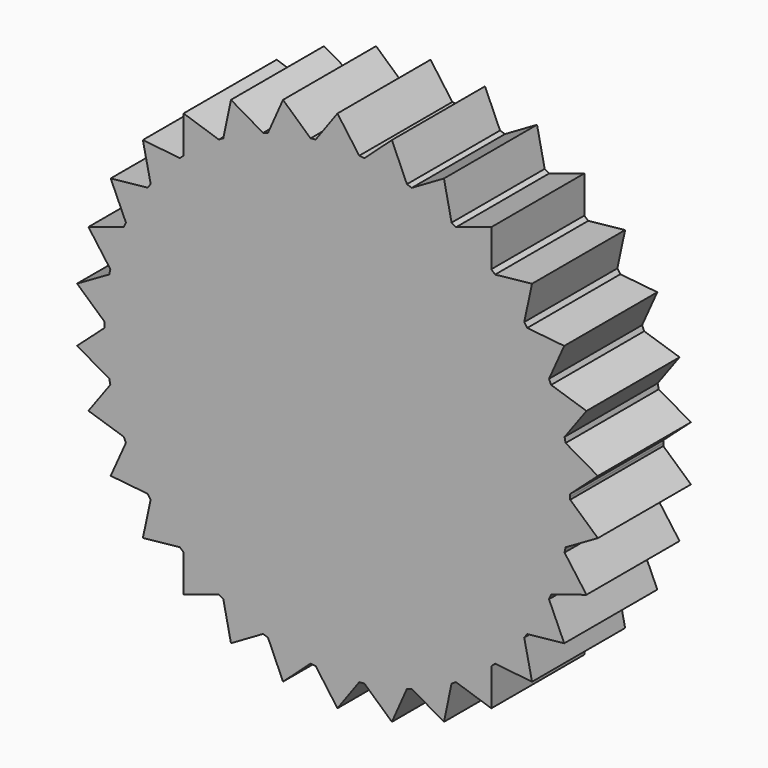
from build123d import *

# Parameters (mm, degrees)
F1_DEPTH = 12.7


with BuildPart() as f1:
    # F0 (on Front) → F1 (new body)
    with BuildSketch(Plane.XZ):
        with BuildLine():
            ThreePointArc((25.39845, -0.280579), (25.399613, -0.140292), (25.4, 0))
            ThreePointArc((25.4, 0), (25.399613, 0.140292), (25.39845, 0.280579))
            ThreePointArc((25.39845, 0.280579), (25.260856, 2.655023), (24.901769, 5.006187))
            ThreePointArc((24.901769, 5.006187), (24.844949, 5.280957), (24.785097, 5.555083))
            ThreePointArc((24.785097, 5.555083), (24.156836, 7.849032), (23.316761, 10.074158))
            ThreePointArc((23.316761, 10.074158), (23.204055, 10.331111), (23.088517, 10.586802))
            ThreePointArc((23.088517, 10.586802), (21.997045, 12.7), (20.712698, 14.701841))
            ThreePointArc((20.712698, 14.701841), (20.549032, 14.929745), (20.382858, 15.155828))
            ThreePointArc((20.382858, 15.155828), (18.875879, 16.995917), (17.203391, 18.686983))
            ThreePointArc((17.203391, 18.686983), (16.995917, 18.875879), (16.786369, 19.062471))
            ThreePointArc((16.786369, 19.062471), (14.929745, 20.549032), (12.942214, 21.855413))
            ThreePointArc((12.942214, 21.855413), (12.7, 21.997045), (12.456236, 22.135993))
            ThreePointArc((12.456236, 22.135993), (10.331111, 23.204055), (8.1154, 24.068658))
            ThreePointArc((8.1154, 24.068658), (7.849032, 24.156836), (7.581706, 24.242065))
            ThreePointArc((7.581706, 24.242065), (5.280957, 24.844949), (2.933903, 25.229986))
            ThreePointArc((2.933903, 25.229986), (2.655023, 25.260856), (2.375819, 25.288643))
            ThreePointArc((2.375819, 25.288643), (0, 25.4), (-2.375819, 25.288643))
            ThreePointArc((-2.375819, 25.288643), (-2.655023, 25.260856), (-2.933903, 25.229986))
            ThreePointArc((-2.933903, 25.229986), (-5.280957, 24.844949), (-7.581706, 24.242065))
            ThreePointArc((-7.581706, 24.242065), (-7.849032, 24.156836), (-8.1154, 24.068658))
            ThreePointArc((-8.1154, 24.068658), (-10.331111, 23.204055), (-12.456236, 22.135993))
            ThreePointArc((-12.456236, 22.135993), (-12.7, 21.997045), (-12.942214, 21.855413))
            ThreePointArc((-12.942214, 21.855413), (-14.929745, 20.549032), (-16.786369, 19.062471))
            ThreePointArc((-16.786369, 19.062471), (-16.995917, 18.875879), (-17.203391, 18.686983))
            ThreePointArc((-17.203391, 18.686983), (-18.875879, 16.995917), (-20.382858, 15.155828))
            ThreePointArc((-20.382858, 15.155828), (-20.549032, 14.929745), (-20.712698, 14.701841))
            ThreePointArc((-20.712698, 14.701841), (-21.997045, 12.7), (-23.088517, 10.586802))
            ThreePointArc((-23.088517, 10.586802), (-23.204055, 10.331111), (-23.316761, 10.074158))
            ThreePointArc((-23.316761, 10.074158), (-24.156836, 7.849032), (-24.785097, 5.555083))
            ThreePointArc((-24.785097, 5.555083), (-24.844949, 5.280957), (-24.901769, 5.006187))
            ThreePointArc((-24.901769, 5.006187), (-25.260856, 2.655023), (-25.39845, 0.280579))
            ThreePointArc((-25.39845, 0.280579), (-25.4, 0), (-25.39845, -0.280579))
            ThreePointArc((-25.39845, -0.280579), (-25.260856, -2.655023), (-24.901769, -5.006187))
            ThreePointArc((-24.901769, -5.006187), (-24.844949, -5.280957), (-24.785097, -5.555083))
            ThreePointArc((-24.785097, -5.555083), (-24.156836, -7.849032), (-23.316761, -10.074158))
            ThreePointArc((-23.316761, -10.074158), (-23.204055, -10.331111), (-23.088517, -10.586802))
            ThreePointArc((-23.088517, -10.586802), (-21.997045, -12.7), (-20.712698, -14.701841))
            ThreePointArc((-20.712698, -14.701841), (-20.549032, -14.929745), (-20.382858, -15.155828))
            ThreePointArc((-20.382858, -15.155828), (-18.875879, -16.995917), (-17.203391, -18.686983))
            ThreePointArc((-17.203391, -18.686983), (-16.995917, -18.875879), (-16.786369, -19.062471))
            ThreePointArc((-16.786369, -19.062471), (-14.929745, -20.549032), (-12.942214, -21.855413))
            ThreePointArc((-12.942214, -21.855413), (-12.7, -21.997045), (-12.456236, -22.135993))
            ThreePointArc((-12.456236, -22.135993), (-10.331111, -23.204055), (-8.1154, -24.068658))
            ThreePointArc((-8.1154, -24.068658), (-7.849032, -24.156836), (-7.581706, -24.242065))
            ThreePointArc((-7.581706, -24.242065), (-5.280957, -24.844949), (-2.933903, -25.229986))
            ThreePointArc((-2.933903, -25.229986), (-2.655023, -25.260856), (-2.375819, -25.288643))
            ThreePointArc((-2.375819, -25.288643), (0, -25.4), (2.375819, -25.288643))
            ThreePointArc((2.375819, -25.288643), (2.655023, -25.260856), (2.933903, -25.229986))
            ThreePointArc((2.933903, -25.229986), (5.280957, -24.844949), (7.581706, -24.242065))
            ThreePointArc((7.581706, -24.242065), (7.849032, -24.156836), (8.1154, -24.068658))
            ThreePointArc((8.1154, -24.068658), (10.331111, -23.204055), (12.456236, -22.135993))
            ThreePointArc((12.456236, -22.135993), (12.7, -21.997045), (12.942214, -21.855413))
            ThreePointArc((12.942214, -21.855413), (14.929745, -20.549032), (16.786369, -19.062471))
            ThreePointArc((16.786369, -19.062471), (16.995917, -18.875879), (17.203391, -18.686983))
            ThreePointArc((17.203391, -18.686983), (18.875879, -16.995917), (20.382858, -15.155828))
            ThreePointArc((20.382858, -15.155828), (20.549032, -14.929745), (20.712698, -14.701841))
            ThreePointArc((20.712698, -14.701841), (21.997045, -12.7), (23.088517, -10.586802))
            ThreePointArc((23.088517, -10.586802), (23.204055, -10.331111), (23.316761, -10.074158))
            ThreePointArc((23.316761, -10.074158), (24.156836, -7.849032), (24.785097, -5.555083))
            ThreePointArc((24.785097, -5.555083), (24.844949, -5.280957), (24.901769, -5.006187))
            ThreePointArc((24.901769, -5.006187), (25.260856, -2.655023), (25.39845, -0.280579))
        make_face()
        with BuildLine():
            ThreePointArc((24.901769, 5.006187), (25.260856, 2.655023), (25.39845, 0.280579))
            Line((25.39845, 0.280579), (28.418463, 2.986901))
            Line((28.418463, 2.986901), (24.901769, 5.006187))
        make_face()
        with BuildLine():
            Line((28.418463, -2.986901), (25.39845, -0.280579))
            ThreePointArc((25.39845, -0.280579), (25.260856, -2.655023), (24.901769, -5.006187))
            Line((24.901769, -5.006187), (28.418463, -2.986901))
        make_face()
        with BuildLine():
            ThreePointArc((23.316761, 10.074158), (24.156836, 7.849032), (24.785097, 5.555083))
            Line((24.785097, 5.555083), (27.17644, 8.830161))
            Line((27.17644, 8.830161), (23.316761, 10.074158))
        make_face()
        with BuildLine():
            Line((27.17644, -8.830161), (24.785097, -5.555083))
            ThreePointArc((24.785097, -5.555083), (24.156836, -7.849032), (23.316761, -10.074158))
            Line((23.316761, -10.074158), (27.17644, -8.830161))
        make_face()
        with BuildLine():
            ThreePointArc((20.712698, 14.701841), (21.997045, 12.7), (23.088517, 10.586802))
            Line((23.088517, 10.586802), (24.746676, 14.2875))
            Line((24.746676, 14.2875), (20.712698, 14.701841))
        make_face()
        with BuildLine():
            Line((24.746676, -14.2875), (23.088517, -10.586802))
            ThreePointArc((23.088517, -10.586802), (21.997045, -12.7), (20.712698, -14.701841))
            Line((20.712698, -14.701841), (24.746676, -14.2875))
        make_face()
        with BuildLine():
            ThreePointArc((17.203391, 18.686983), (18.875879, 16.995917), (20.382858, 15.155828))
            Line((20.382858, 15.155828), (21.235363, 19.120407))
            Line((21.235363, 19.120407), (17.203391, 18.686983))
        make_face()
        with BuildLine():
            Line((21.235363, -19.120407), (20.382858, -15.155828))
            ThreePointArc((20.382858, -15.155828), (18.875879, -16.995917), (17.203391, -18.686983))
            Line((17.203391, -18.686983), (21.235363, -19.120407))
        make_face()
        with BuildLine():
            ThreePointArc((12.942214, 21.855413), (14.929745, 20.549032), (16.786369, 19.062471))
            Line((16.786369, 19.062471), (16.795964, 23.117661))
            Line((16.795964, 23.117661), (12.942214, 21.855413))
        make_face()
        with BuildLine():
            Line((16.795964, -23.117661), (16.786369, -19.062471))
            ThreePointArc((16.786369, -19.062471), (14.929745, -20.549032), (12.942214, -21.855413))
            Line((12.942214, -21.855413), (16.795964, -23.117661))
        make_face()
        with BuildLine():
            ThreePointArc((8.1154, 24.068658), (10.331111, 23.204055), (12.456236, 22.135993))
            Line((12.456236, 22.135993), (11.6225, 26.104561))
            Line((11.6225, 26.104561), (8.1154, 24.068658))
        make_face()
        with BuildLine():
            Line((11.6225, -26.104561), (12.456236, -22.135993))
            ThreePointArc((12.456236, -22.135993), (10.331111, -23.204055), (8.1154, -24.068658))
            Line((8.1154, -24.068658), (11.6225, -26.104561))
        make_face()
        with BuildLine():
            ThreePointArc((2.933903, 25.229986), (5.280957, 24.844949), (7.581706, 24.242065))
            Line((7.581706, 24.242065), (5.941077, 27.950568))
            Line((5.941077, 27.950568), (2.933903, 25.229986))
        make_face()
        with BuildLine():
            Line((5.941077, -27.950568), (7.581706, -24.242065))
            ThreePointArc((7.581706, -24.242065), (5.280957, -24.844949), (2.933903, -25.229986))
            Line((2.933903, -25.229986), (5.941077, -27.950568))
        make_face()
        with BuildLine():
            ThreePointArc((-2.375819, 25.288643), (0, 25.4), (2.375819, 25.288643))
            Line((2.375819, 25.288643), (0, 28.575))
            Line((0, 28.575), (-2.375819, 25.288643))
        make_face()
        with BuildLine():
            Line((0, -28.575), (2.375819, -25.288643))
            ThreePointArc((2.375819, -25.288643), (0, -25.4), (-2.375819, -25.288643))
            Line((-2.375819, -25.288643), (0, -28.575))
        make_face()
        with BuildLine():
            ThreePointArc((-7.581706, 24.242065), (-5.280957, 24.844949), (-2.933903, 25.229986))
            Line((-2.933903, 25.229986), (-5.941077, 27.950568))
            Line((-5.941077, 27.950568), (-7.581706, 24.242065))
        make_face()
        with BuildLine():
            Line((-5.941077, -27.950568), (-2.933903, -25.229986))
            ThreePointArc((-2.933903, -25.229986), (-5.280957, -24.844949), (-7.581706, -24.242065))
            Line((-7.581706, -24.242065), (-5.941077, -27.950568))
        make_face()
        with BuildLine():
            ThreePointArc((-12.456236, 22.135993), (-10.331111, 23.204055), (-8.1154, 24.068658))
            Line((-8.1154, 24.068658), (-11.6225, 26.104561))
            Line((-11.6225, 26.104561), (-12.456236, 22.135993))
        make_face()
        with BuildLine():
            Line((-11.6225, -26.104561), (-8.1154, -24.068658))
            ThreePointArc((-8.1154, -24.068658), (-10.331111, -23.204055), (-12.456236, -22.135993))
            Line((-12.456236, -22.135993), (-11.6225, -26.104561))
        make_face()
        with BuildLine():
            ThreePointArc((-16.786369, 19.062471), (-14.929745, 20.549032), (-12.942214, 21.855413))
            Line((-12.942214, 21.855413), (-16.795964, 23.117661))
            Line((-16.795964, 23.117661), (-16.786369, 19.062471))
        make_face()
        with BuildLine():
            Line((-16.795964, -23.117661), (-12.942214, -21.855413))
            ThreePointArc((-12.942214, -21.855413), (-14.929745, -20.549032), (-16.786369, -19.062471))
            Line((-16.786369, -19.062471), (-16.795964, -23.117661))
        make_face()
        with BuildLine():
            ThreePointArc((-20.382858, 15.155828), (-18.875879, 16.995917), (-17.203391, 18.686983))
            Line((-17.203391, 18.686983), (-21.235363, 19.120407))
            Line((-21.235363, 19.120407), (-20.382858, 15.155828))
        make_face()
        with BuildLine():
            Line((-21.235363, -19.120407), (-17.203391, -18.686983))
            ThreePointArc((-17.203391, -18.686983), (-18.875879, -16.995917), (-20.382858, -15.155828))
            Line((-20.382858, -15.155828), (-21.235363, -19.120407))
        make_face()
        with BuildLine():
            ThreePointArc((-23.088517, 10.586802), (-21.997045, 12.7), (-20.712698, 14.701841))
            Line((-20.712698, 14.701841), (-24.746676, 14.2875))
            Line((-24.746676, 14.2875), (-23.088517, 10.586802))
        make_face()
        with BuildLine():
            Line((-24.746676, -14.2875), (-20.712698, -14.701841))
            ThreePointArc((-20.712698, -14.701841), (-21.997045, -12.7), (-23.088517, -10.586802))
            Line((-23.088517, -10.586802), (-24.746676, -14.2875))
        make_face()
        with BuildLine():
            ThreePointArc((-24.785097, 5.555083), (-24.156836, 7.849032), (-23.316761, 10.074158))
            Line((-23.316761, 10.074158), (-27.17644, 8.830161))
            Line((-27.17644, 8.830161), (-24.785097, 5.555083))
        make_face()
        with BuildLine():
            Line((-27.17644, -8.830161), (-23.316761, -10.074158))
            ThreePointArc((-23.316761, -10.074158), (-24.156836, -7.849032), (-24.785097, -5.555083))
            Line((-24.785097, -5.555083), (-27.17644, -8.830161))
        make_face()
        with BuildLine():
            ThreePointArc((-25.39845, 0.280579), (-25.260856, 2.655023), (-24.901769, 5.006187))
            Line((-24.901769, 5.006187), (-28.418463, 2.986901))
            Line((-28.418463, 2.986901), (-25.39845, 0.280579))
        make_face()
        with BuildLine():
            Line((-28.418463, -2.986901), (-24.901769, -5.006187))
            ThreePointArc((-24.901769, -5.006187), (-25.260856, -2.655023), (-25.39845, -0.280579))
            Line((-25.39845, -0.280579), (-28.418463, -2.986901))
        make_face()
    extrude(amount=F1_DEPTH)


solid = f1.part
